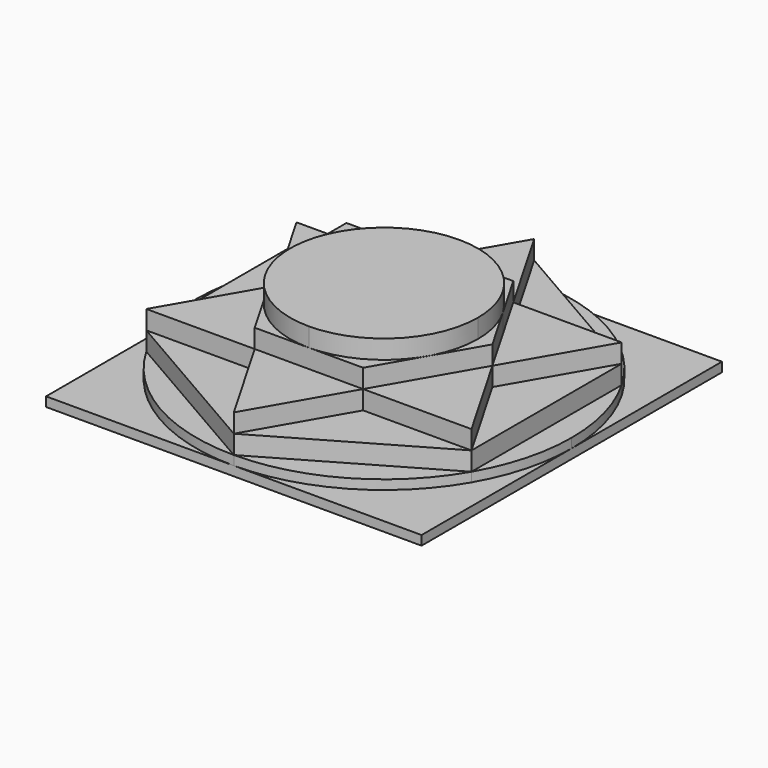
from build123d import *

# Parameters (mm, degrees)
F1_DEPTH = 25
F2_DEPTH = 20
F3_DEPTH = 15
F4_DEPTH = 10
F5_DEPTH = 5
F6_DEPTH = 2.5


with BuildPart() as f1:
    # F0 (on Top) → F1 (new body)
    with BuildSketch(Plane.XY):
        with BuildLine():
            ThreePointArc((21.6506349485, 12.5000002531), (12.4999998734, 21.6506351677), (0, 25))
            ThreePointArc((0, 25), (-12.499999828, 21.6506351939), (-21.650634896, 12.500000344))
            ThreePointArc((-21.650634896, 12.500000344), (-25, 2.051e-07), (-21.6506351011, -12.4999999888))
            ThreePointArc((-21.6506351011, -12.4999999888), (-12.4999999898, -21.6506351005), (3.65e-08, -25))
            ThreePointArc((3.65e-08, -25), (12.5000002944, -21.6506349246), (21.6506354163, -12.4999994428))
            ThreePointArc((21.6506354163, -12.4999994428), (24.1481457405, -6.4704758168), (25, 0))
            ThreePointArc((25, 0), (24.1481456194, 6.4704762687), (21.6506349485, 12.5000002531))
        make_face()
    extrude(amount=F1_DEPTH)


with BuildPart() as f2:
    # F0 (on Top) → F2 (new body)
    with BuildSketch(Plane.XY):
        with BuildLine():
            Line((-21.650634896, 12.500000344), (-28.8675134595, 0))
            Line((-28.8675134595, 0), (-21.6506351011, -12.4999999888))
            ThreePointArc((-21.6506351011, -12.4999999888), (-25, 2.051e-07), (-21.650634896, 12.500000344))
        make_face()
        with BuildLine():
            Line((0, 25), (-14.4337567297, 25))
            Line((-14.4337567297, 25), (-21.650634896, 12.500000344))
            ThreePointArc((-21.650634896, 12.500000344), (-12.499999828, 21.6506351939), (0, 25))
        make_face()
        with BuildLine():
            Line((21.6506349485, 12.5000002531), (14.4337567297, 25))
            Line((14.4337567297, 25), (0, 25))
            ThreePointArc((0, 25), (12.4999998734, 21.6506351677), (21.6506349485, 12.5000002531))
        make_face()
        with BuildLine():
            Line((21.6506354163, -12.4999994428), (28.8675134595, 0))
            Line((28.8675134595, 0), (21.6506349485, 12.5000002531))
            ThreePointArc((21.6506349485, 12.5000002531), (24.1481456194, 6.4704762687), (25, 0))
            ThreePointArc((25, 0), (24.1481457405, -6.4704758168), (21.6506354163, -12.4999994428))
        make_face()
        with BuildLine():
            Line((3.65e-08, -25), (14.4337567297, -25))
            Line((14.4337567297, -25), (21.6506354163, -12.4999994428))
            ThreePointArc((21.6506354163, -12.4999994428), (12.5000002944, -21.6506349246), (3.65e-08, -25))
        make_face()
        with BuildLine():
            Line((-21.6506351011, -12.4999999888), (-14.4337567297, -25))
            Line((-14.4337567297, -25), (3.65e-08, -25))
            ThreePointArc((3.65e-08, -25), (-12.4999999898, -21.6506351005), (-21.6506351011, -12.4999999888))
        make_face()
        with BuildLine():
            ThreePointArc((21.6506349485, 12.5000002531), (12.4999998734, 21.6506351677), (0, 25))
            ThreePointArc((0, 25), (-12.499999828, 21.6506351939), (-21.650634896, 12.500000344))
            ThreePointArc((-21.650634896, 12.500000344), (-25, 2.051e-07), (-21.6506351011, -12.4999999888))
            ThreePointArc((-21.6506351011, -12.4999999888), (-12.4999999898, -21.6506351005), (3.65e-08, -25))
            ThreePointArc((3.65e-08, -25), (12.5000002944, -21.6506349246), (21.6506354163, -12.4999994428))
            ThreePointArc((21.6506354163, -12.4999994428), (24.1481457405, -6.4704758168), (25, 0))
            ThreePointArc((25, 0), (24.1481456194, 6.4704762687), (21.6506349485, 12.5000002531))
        make_face()
    extrude(amount=F2_DEPTH)


with BuildPart() as f3:
    # F0 (on Top) → F3 (new body)
    with BuildSketch(Plane.XY):
        with BuildLine():
            Line((0, 25), (-14.4337567297, 25))
            Line((-14.4337567297, 25), (-21.650634896, 12.500000344))
            ThreePointArc((-21.650634896, 12.500000344), (-12.499999828, 21.6506351939), (0, 25))
        make_face()
        with BuildLine():
            Line((21.6506349485, 12.5000002531), (14.4337567297, 25))
            Line((14.4337567297, 25), (0, 25))
            ThreePointArc((0, 25), (12.4999998734, 21.6506351677), (21.6506349485, 12.5000002531))
        make_face()
        with BuildLine():
            ThreePointArc((21.6506349485, 12.5000002531), (12.4999998734, 21.6506351677), (0, 25))
            ThreePointArc((0, 25), (-12.499999828, 21.6506351939), (-21.650634896, 12.500000344))
            ThreePointArc((-21.650634896, 12.500000344), (-25, 2.051e-07), (-21.6506351011, -12.4999999888))
            ThreePointArc((-21.6506351011, -12.4999999888), (-12.4999999898, -21.6506351005), (3.65e-08, -25))
            ThreePointArc((3.65e-08, -25), (12.5000002944, -21.6506349246), (21.6506354163, -12.4999994428))
            ThreePointArc((21.6506354163, -12.4999994428), (24.1481457405, -6.4704758168), (25, 0))
            ThreePointArc((25, 0), (24.1481456194, 6.4704762687), (21.6506349485, 12.5000002531))
        make_face()
        with BuildLine():
            Line((21.6506354163, -12.4999994428), (28.8675134595, 0))
            Line((28.8675134595, 0), (21.6506349485, 12.5000002531))
            ThreePointArc((21.6506349485, 12.5000002531), (24.1481456194, 6.4704762687), (25, 0))
            ThreePointArc((25, 0), (24.1481457405, -6.4704758168), (21.6506354163, -12.4999994428))
        make_face()
        with BuildLine():
            Line((3.65e-08, -25), (14.4337567297, -25))
            Line((14.4337567297, -25), (21.6506354163, -12.4999994428))
            ThreePointArc((21.6506354163, -12.4999994428), (12.5000002944, -21.6506349246), (3.65e-08, -25))
        make_face()
        with BuildLine():
            Line((-21.6506351011, -12.4999999888), (-14.4337567297, -25))
            Line((-14.4337567297, -25), (3.65e-08, -25))
            ThreePointArc((3.65e-08, -25), (-12.4999999898, -21.6506351005), (-21.6506351011, -12.4999999888))
        make_face()
        with BuildLine():
            Line((-21.650634896, 12.500000344), (-28.8675134595, 0))
            Line((-28.8675134595, 0), (-21.6506351011, -12.4999999888))
            ThreePointArc((-21.6506351011, -12.4999999888), (-25, 2.051e-07), (-21.650634896, 12.500000344))
        make_face()
        Polygon((28.8675134595, 0), (43.3012701892, 25), (14.4337567297, 25), (21.6506349485, 12.5000002531), align=None)
        Polygon((-14.4337567297, -25), (0, -50), (14.4337567297, -25), (3.65e-08, -25), align=None)
        Polygon((14.4337567297, -25), (43.3012701892, -25), (28.8675134595, 0), (21.6506354163, -12.4999994428), align=None)
        Polygon((14.4337567297, 25), (0, 50), (-14.4337567297, 25), (0, 25), align=None)
        Polygon((-14.4337567297, 25), (-43.3012701892, 25), (-28.8675134595, 0), (-21.650634896, 12.500000344), align=None)
        Polygon((-28.8675134595, 0), (-43.3012701892, -25), (-14.4337567297, -25), (-21.6506351011, -12.4999999888), align=None)
    extrude(amount=F3_DEPTH)


with BuildPart() as f4:
    # F0 (on Top) → F4 (new body)
    with BuildSketch(Plane.XY):
        with BuildLine():
            ThreePointArc((21.6506349485, 12.5000002531), (12.4999998734, 21.6506351677), (0, 25))
            ThreePointArc((0, 25), (-12.499999828, 21.6506351939), (-21.650634896, 12.500000344))
            ThreePointArc((-21.650634896, 12.500000344), (-25, 2.051e-07), (-21.6506351011, -12.4999999888))
            ThreePointArc((-21.6506351011, -12.4999999888), (-12.4999999898, -21.6506351005), (3.65e-08, -25))
            ThreePointArc((3.65e-08, -25), (12.5000002944, -21.6506349246), (21.6506354163, -12.4999994428))
            ThreePointArc((21.6506354163, -12.4999994428), (24.1481457405, -6.4704758168), (25, 0))
            ThreePointArc((25, 0), (24.1481456194, 6.4704762687), (21.6506349485, 12.5000002531))
        make_face()
        with BuildLine():
            Line((0, 25), (-14.4337567297, 25))
            Line((-14.4337567297, 25), (-21.650634896, 12.500000344))
            ThreePointArc((-21.650634896, 12.500000344), (-12.499999828, 21.6506351939), (0, 25))
        make_face()
        with BuildLine():
            Line((21.6506349485, 12.5000002531), (14.4337567297, 25))
            Line((14.4337567297, 25), (0, 25))
            ThreePointArc((0, 25), (12.4999998734, 21.6506351677), (21.6506349485, 12.5000002531))
        make_face()
        with BuildLine():
            Line((21.6506354163, -12.4999994428), (28.8675134595, 0))
            Line((28.8675134595, 0), (21.6506349485, 12.5000002531))
            ThreePointArc((21.6506349485, 12.5000002531), (24.1481456194, 6.4704762687), (25, 0))
            ThreePointArc((25, 0), (24.1481457405, -6.4704758168), (21.6506354163, -12.4999994428))
        make_face()
        with BuildLine():
            Line((3.65e-08, -25), (14.4337567297, -25))
            Line((14.4337567297, -25), (21.6506354163, -12.4999994428))
            ThreePointArc((21.6506354163, -12.4999994428), (12.5000002944, -21.6506349246), (3.65e-08, -25))
        make_face()
        with BuildLine():
            Line((-21.6506351011, -12.4999999888), (-14.4337567297, -25))
            Line((-14.4337567297, -25), (3.65e-08, -25))
            ThreePointArc((3.65e-08, -25), (-12.4999999898, -21.6506351005), (-21.6506351011, -12.4999999888))
        make_face()
        with BuildLine():
            Line((-21.650634896, 12.500000344), (-28.8675134595, 0))
            Line((-28.8675134595, 0), (-21.6506351011, -12.4999999888))
            ThreePointArc((-21.6506351011, -12.4999999888), (-25, 2.051e-07), (-21.650634896, 12.500000344))
        make_face()
        Polygon((-14.4337567297, 25), (-43.3012701892, 25), (-28.8675134595, 0), (-21.650634896, 12.500000344), align=None)
        Polygon((-28.8675134595, 0), (-43.3012701892, -25), (-14.4337567297, -25), (-21.6506351011, -12.4999999888), align=None)
        Polygon((-14.4337567297, -25), (0, -50), (14.4337567297, -25), (3.65e-08, -25), align=None)
        Polygon((14.4337567297, -25), (43.3012701892, -25), (28.8675134595, 0), (21.6506354163, -12.4999994428), align=None)
        Polygon((28.8675134595, 0), (43.3012701892, 25), (14.4337567297, 25), (21.6506349485, 12.5000002531), align=None)
        Polygon((14.4337567297, 25), (0, 50), (-14.4337567297, 25), (0, 25), align=None)
        Polygon((-14.4337567297, 25), (0, 50), (-43.3012701892, 25), align=None)
        Polygon((14.4337567297, 25), (43.3012701892, 25), (0, 50), align=None)
        Polygon((43.3012701892, -25), (43.3012701892, 25), (28.8675134595, 0), align=None)
        Polygon((0, -50), (43.3012701892, -25), (14.4337567297, -25), align=None)
        Polygon((-43.3012701892, -25), (0, -50), (-14.4337567297, -25), align=None)
        Polygon((-28.8675134595, 0), (-43.3012701892, 25), (-43.3012701892, -25), align=None)
    extrude(amount=F4_DEPTH)


with BuildPart() as f5:
    # F0 (on Top) → F5 (new body)
    with BuildSketch(Plane.XY):
        with BuildLine():
            Line((-43.3012701892, 25), (0, 50))
            ThreePointArc((0, 50), (-25, 43.3012701892), (-43.3012701892, 25))
        make_face()
        with BuildLine():
            Line((0, 50), (43.3012701892, 25))
            ThreePointArc((43.3012701892, 25), (25, 43.3012701892), (0, 50))
        make_face()
        Polygon((-14.4337567297, 25), (0, 50), (-43.3012701892, 25), align=None)
        Polygon((14.4337567297, 25), (0, 50), (-14.4337567297, 25), (0, 25), align=None)
        Polygon((14.4337567297, 25), (43.3012701892, 25), (0, 50), align=None)
        Polygon((-14.4337567297, 25), (-43.3012701892, 25), (-28.8675134595, 0), (-21.650634896, 12.500000344), align=None)
        with BuildLine():
            Line((0, 25), (-14.4337567297, 25))
            Line((-14.4337567297, 25), (-21.650634896, 12.500000344))
            ThreePointArc((-21.650634896, 12.500000344), (-12.499999828, 21.6506351939), (0, 25))
        make_face()
        with BuildLine():
            Line((21.6506349485, 12.5000002531), (14.4337567297, 25))
            Line((14.4337567297, 25), (0, 25))
            ThreePointArc((0, 25), (12.4999998734, 21.6506351677), (21.6506349485, 12.5000002531))
        make_face()
        Polygon((28.8675134595, 0), (43.3012701892, 25), (14.4337567297, 25), (21.6506349485, 12.5000002531), align=None)
        with BuildLine():
            ThreePointArc((43.3012701892, -25), (48.2962913145, -12.9409522551), (50, 0))
            ThreePointArc((50, 0), (48.2962913145, 12.9409522551), (43.3012701892, 25))
            Line((43.3012701892, 25), (43.3012701892, -25))
        make_face()
        Polygon((43.3012701892, -25), (43.3012701892, 25), (28.8675134595, 0), align=None)
        with BuildLine():
            Line((21.6506354163, -12.4999994428), (28.8675134595, 0))
            Line((28.8675134595, 0), (21.6506349485, 12.5000002531))
            ThreePointArc((21.6506349485, 12.5000002531), (24.1481456194, 6.4704762687), (25, 0))
            ThreePointArc((25, 0), (24.1481457405, -6.4704758168), (21.6506354163, -12.4999994428))
        make_face()
        with BuildLine():
            ThreePointArc((21.6506349485, 12.5000002531), (12.4999998734, 21.6506351677), (0, 25))
            ThreePointArc((0, 25), (-12.499999828, 21.6506351939), (-21.650634896, 12.500000344))
            ThreePointArc((-21.650634896, 12.500000344), (-25, 2.051e-07), (-21.6506351011, -12.4999999888))
            ThreePointArc((-21.6506351011, -12.4999999888), (-12.4999999898, -21.6506351005), (3.65e-08, -25))
            ThreePointArc((3.65e-08, -25), (12.5000002944, -21.6506349246), (21.6506354163, -12.4999994428))
            ThreePointArc((21.6506354163, -12.4999994428), (24.1481457405, -6.4704758168), (25, 0))
            ThreePointArc((25, 0), (24.1481456194, 6.4704762687), (21.6506349485, 12.5000002531))
        make_face()
        with BuildLine():
            Line((-21.650634896, 12.500000344), (-28.8675134595, 0))
            Line((-28.8675134595, 0), (-21.6506351011, -12.4999999888))
            ThreePointArc((-21.6506351011, -12.4999999888), (-25, 2.051e-07), (-21.650634896, 12.500000344))
        make_face()
        Polygon((-28.8675134595, 0), (-43.3012701892, 25), (-43.3012701892, -25), align=None)
        with BuildLine():
            Line((-43.3012701892, -25), (-43.3012701892, 25))
            ThreePointArc((-43.3012701892, 25), (-48.2962913145, 12.9409522551), (-50, 0))
            ThreePointArc((-50, 0), (-48.2962913145, -12.9409522551), (-43.3012701892, -25))
        make_face()
        Polygon((-28.8675134595, 0), (-43.3012701892, -25), (-14.4337567297, -25), (-21.6506351011, -12.4999999888), align=None)
        with BuildLine():
            Line((-21.6506351011, -12.4999999888), (-14.4337567297, -25))
            Line((-14.4337567297, -25), (3.65e-08, -25))
            ThreePointArc((3.65e-08, -25), (-12.4999999898, -21.6506351005), (-21.6506351011, -12.4999999888))
        make_face()
        with BuildLine():
            Line((3.65e-08, -25), (14.4337567297, -25))
            Line((14.4337567297, -25), (21.6506354163, -12.4999994428))
            ThreePointArc((21.6506354163, -12.4999994428), (12.5000002944, -21.6506349246), (3.65e-08, -25))
        make_face()
        Polygon((14.4337567297, -25), (43.3012701892, -25), (28.8675134595, 0), (21.6506354163, -12.4999994428), align=None)
        Polygon((0, -50), (43.3012701892, -25), (14.4337567297, -25), align=None)
        Polygon((-14.4337567297, -25), (0, -50), (14.4337567297, -25), (3.65e-08, -25), align=None)
        Polygon((-43.3012701892, -25), (0, -50), (-14.4337567297, -25), align=None)
        with BuildLine():
            ThreePointArc((-43.3012701892, -25), (-25, -43.3012701892), (0, -50))
            Line((0, -50), (-43.3012701892, -25))
        make_face()
        with BuildLine():
            ThreePointArc((0, -50), (25, -43.3012701892), (43.3012701892, -25))
            Line((43.3012701892, -25), (0, -50))
        make_face()
    extrude(amount=F5_DEPTH)


with BuildPart() as f6:
    # F0 (on Top) → F6 (new body)
    with BuildSketch(Plane.XY):
        with BuildLine():
            ThreePointArc((-43.3012701892, 25), (-25, 43.3012701892), (0, 50))
            Line((0, 50), (-50, 50))
            Line((-50, 50), (-50, 0))
            ThreePointArc((-50, 0), (-48.2962913145, 12.9409522551), (-43.3012701892, 25))
        make_face()
        with BuildLine():
            Line((-43.3012701892, 25), (0, 50))
            ThreePointArc((0, 50), (-25, 43.3012701892), (-43.3012701892, 25))
        make_face()
        Polygon((-14.4337567297, 25), (0, 50), (-43.3012701892, 25), align=None)
        Polygon((14.4337567297, 25), (0, 50), (-14.4337567297, 25), (0, 25), align=None)
        with BuildLine():
            Line((0, 50), (43.3012701892, 25))
            ThreePointArc((43.3012701892, 25), (25, 43.3012701892), (0, 50))
        make_face()
        Polygon((14.4337567297, 25), (43.3012701892, 25), (0, 50), align=None)
        with BuildLine():
            ThreePointArc((43.3012701892, 25), (48.2962913145, 12.9409522551), (50, 0))
            Line((50, 0), (50, 50))
            Line((50, 50), (0, 50))
            ThreePointArc((0, 50), (25, 43.3012701892), (43.3012701892, 25))
        make_face()
        Polygon((28.8675134595, 0), (43.3012701892, 25), (14.4337567297, 25), (21.6506349485, 12.5000002531), align=None)
        Polygon((43.3012701892, -25), (43.3012701892, 25), (28.8675134595, 0), align=None)
        with BuildLine():
            ThreePointArc((43.3012701892, -25), (48.2962913145, -12.9409522551), (50, 0))
            ThreePointArc((50, 0), (48.2962913145, 12.9409522551), (43.3012701892, 25))
            Line((43.3012701892, 25), (43.3012701892, -25))
        make_face()
        with BuildLine():
            ThreePointArc((21.6506349485, 12.5000002531), (12.4999998734, 21.6506351677), (0, 25))
            ThreePointArc((0, 25), (-12.499999828, 21.6506351939), (-21.650634896, 12.500000344))
            ThreePointArc((-21.650634896, 12.500000344), (-25, 2.051e-07), (-21.6506351011, -12.4999999888))
            ThreePointArc((-21.6506351011, -12.4999999888), (-12.4999999898, -21.6506351005), (3.65e-08, -25))
            ThreePointArc((3.65e-08, -25), (12.5000002944, -21.6506349246), (21.6506354163, -12.4999994428))
            ThreePointArc((21.6506354163, -12.4999994428), (24.1481457405, -6.4704758168), (25, 0))
            ThreePointArc((25, 0), (24.1481456194, 6.4704762687), (21.6506349485, 12.5000002531))
        make_face()
        Polygon((-14.4337567297, 25), (-43.3012701892, 25), (-28.8675134595, 0), (-21.650634896, 12.500000344), align=None)
        Polygon((-28.8675134595, 0), (-43.3012701892, 25), (-43.3012701892, -25), align=None)
        with BuildLine():
            Line((-43.3012701892, -25), (-43.3012701892, 25))
            ThreePointArc((-43.3012701892, 25), (-48.2962913145, 12.9409522551), (-50, 0))
            ThreePointArc((-50, 0), (-48.2962913145, -12.9409522551), (-43.3012701892, -25))
        make_face()
        Polygon((-28.8675134595, 0), (-43.3012701892, -25), (-14.4337567297, -25), (-21.6506351011, -12.4999999888), align=None)
        with BuildLine():
            Line((-50, -50), (0, -50))
            ThreePointArc((0, -50), (-25, -43.3012701892), (-43.3012701892, -25))
            ThreePointArc((-43.3012701892, -25), (-48.2962913145, -12.9409522551), (-50, 0))
            Line((-50, 0), (-50, -50))
        make_face()
        with BuildLine():
            ThreePointArc((-43.3012701892, -25), (-25, -43.3012701892), (0, -50))
            Line((0, -50), (-43.3012701892, -25))
        make_face()
        Polygon((-43.3012701892, -25), (0, -50), (-14.4337567297, -25), align=None)
        Polygon((-14.4337567297, -25), (0, -50), (14.4337567297, -25), (3.65e-08, -25), align=None)
        Polygon((0, -50), (43.3012701892, -25), (14.4337567297, -25), align=None)
        Polygon((14.4337567297, -25), (43.3012701892, -25), (28.8675134595, 0), (21.6506354163, -12.4999994428), align=None)
        with BuildLine():
            ThreePointArc((0, -50), (25, -43.3012701892), (43.3012701892, -25))
            Line((43.3012701892, -25), (0, -50))
        make_face()
        with BuildLine():
            Line((50, -50), (50, 0))
            ThreePointArc((50, 0), (48.2962913145, -12.9409522551), (43.3012701892, -25))
            ThreePointArc((43.3012701892, -25), (25, -43.3012701892), (0, -50))
            Line((0, -50), (50, -50))
        make_face()
        with BuildLine():
            Line((0, 25), (-14.4337567297, 25))
            Line((-14.4337567297, 25), (-21.650634896, 12.500000344))
            ThreePointArc((-21.650634896, 12.500000344), (-12.499999828, 21.6506351939), (0, 25))
        make_face()
        with BuildLine():
            Line((21.6506349485, 12.5000002531), (14.4337567297, 25))
            Line((14.4337567297, 25), (0, 25))
            ThreePointArc((0, 25), (12.4999998734, 21.6506351677), (21.6506349485, 12.5000002531))
        make_face()
        with BuildLine():
            Line((-21.650634896, 12.500000344), (-28.8675134595, 0))
            Line((-28.8675134595, 0), (-21.6506351011, -12.4999999888))
            ThreePointArc((-21.6506351011, -12.4999999888), (-25, 2.051e-07), (-21.650634896, 12.500000344))
        make_face()
        with BuildLine():
            Line((-21.6506351011, -12.4999999888), (-14.4337567297, -25))
            Line((-14.4337567297, -25), (3.65e-08, -25))
            ThreePointArc((3.65e-08, -25), (-12.4999999898, -21.6506351005), (-21.6506351011, -12.4999999888))
        make_face()
        with BuildLine():
            Line((3.65e-08, -25), (14.4337567297, -25))
            Line((14.4337567297, -25), (21.6506354163, -12.4999994428))
            ThreePointArc((21.6506354163, -12.4999994428), (12.5000002944, -21.6506349246), (3.65e-08, -25))
        make_face()
        with BuildLine():
            Line((21.6506354163, -12.4999994428), (28.8675134595, 0))
            Line((28.8675134595, 0), (21.6506349485, 12.5000002531))
            ThreePointArc((21.6506349485, 12.5000002531), (24.1481456194, 6.4704762687), (25, 0))
            ThreePointArc((25, 0), (24.1481457405, -6.4704758168), (21.6506354163, -12.4999994428))
        make_face()
    extrude(amount=F6_DEPTH)


solid = Compound([f1.part, f2.part, f3.part, f4.part, f5.part, f6.part])
